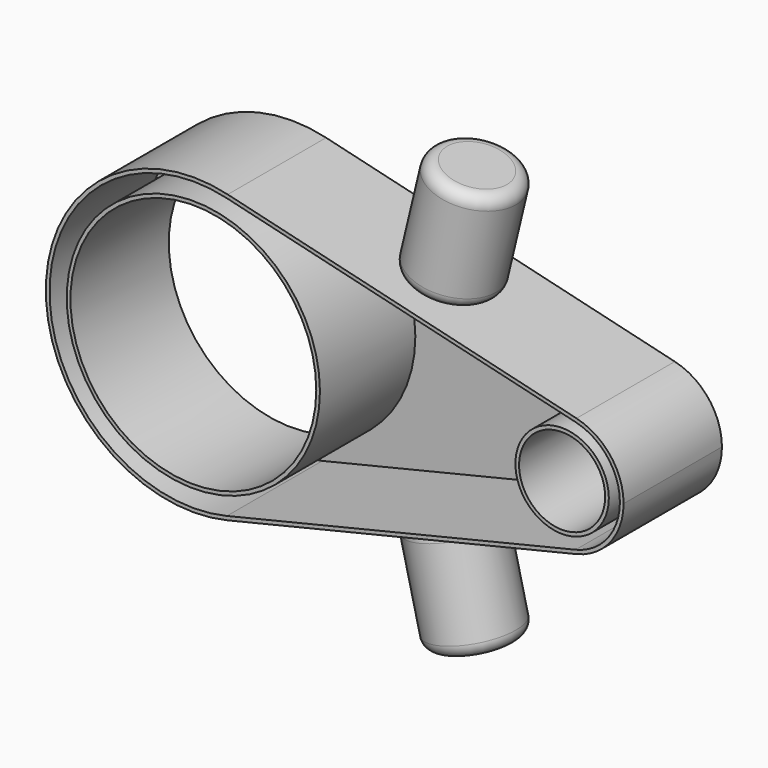
from build123d import *

# Parameters (mm, degrees)
F0_R     = 50
F1_DEPTH = 50
F2_R     = 17.5
F3_DEPTH = 45
F4_R     = 5
F5_R     = 17.5
F6_DEPTH = 50.001
F7_T     = -1.5


with BuildPart() as f1:
    # F0 (on Front) → F1 (new body)
    with BuildSketch(Plane.XZ):
        with BuildLine():
            ThreePointArc((14, -58.3438085833), (47.1168759576, -37.148351242), (60, 0))
            ThreePointArc((60, 0), (47.1168759576, 37.148351242), (14, 58.3438085833))
            ThreePointArc((14, 58.3438085833), (-60, 0), (14, -58.3438085833))
        make_face()
        Circle(F0_R, mode=Mode.SUBTRACT)
        with BuildLine():
            ThreePointArc((14, 58.3438085833), (47.1168759576, 37.148351242), (60, 0))
            ThreePointArc((60, 0), (47.1168759576, -37.148351242), (14, -58.3438085833))
            Line((14, -58.3438085833), (155.8333333333, -24.309920243))
            ThreePointArc((155.8333333333, -24.309920243), (125, 0), (155.8333333333, 24.309920243))
            Line((155.8333333333, 24.309920243), (14, 58.3438085833))
        make_face()
        with BuildLine():
            ThreePointArc((175, 0), (169.632031649, 15.4784796842), (155.8333333333, 24.309920243))
            ThreePointArc((155.8333333333, 24.309920243), (125, 0), (155.8333333333, -24.309920243))
            ThreePointArc((155.8333333333, -24.309920243), (169.632031649, -15.4784796842), (175, 0))
        make_face()
    extrude(amount=F1_DEPTH)

    # F5 (on face) → F6 (cut, through all)
    with BuildSketch(Plane.XZ.offset(50)):
        with Locations((150, 0)):
            Circle(F5_R)
    extrude(amount=-F6_DEPTH, mode=Mode.SUBTRACT)

    # F7
    f7_openings = [f1.faces().sort_by_distance(p)[0] for p in [
        (65.769085, -50, 0),
    ]]
    offset(amount=F7_T, openings=f7_openings)



with BuildPart() as f3:
    # F2 (on face) → F3 (new body)
    with BuildSketch(Plane(origin=(14, 0, 58.3438085833), x_dir=(0.9723968097, 0, -0.2333333333), z_dir=(0.2333333333, 0, 0.9723968097))):
        with Locations((72.9297607291, -25)):
            Circle(F2_R)
    extrude(amount=F3_DEPTH)

    # F4
    f4_edges = [f3.edges().sort_by_distance(p)[0] for p in [
        (78.399722, -25, 89.168054),
        (67.899722, -25, 45.410198),
    ]]
    fillet(f4_edges, radius=F4_R)


with BuildPart() as f1_1:
    add(f1.part)

    add(f3.part)  # F8 merges F3
    # F8: F3 across plane
    add(f3.part.mirror(Plane.XY))


solid = f1_1.part
